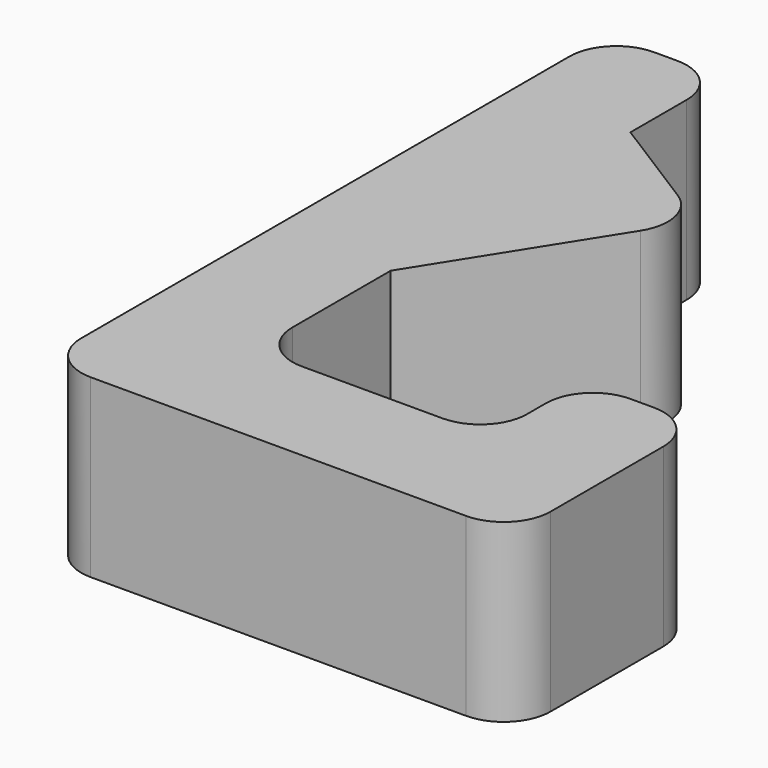
from build123d import *

# Parameters (mm, degrees)
F1_DEPTH = 7.5


with BuildPart() as f1:
    # F0 (on Top) → F1 (new body)
    with BuildSketch(Plane.XY):
        with BuildLine():
            ThreePointArc((-18, 30), (-19.414214, 29.414214), (-20, 28))
            Line((-20, 28), (-20, 2))
            ThreePointArc((-20, 2), (-19.414214, 0.585786), (-18, 0))
            Line((-18, 0), (-2, 0))
            ThreePointArc((-2, 0), (-0.585786, 0.585786), (0, 2))
            Line((0, 2), (0, 8))
            ThreePointArc((0, 8), (-0.585786, 9.414214), (-2, 10))
            Line((-2, 10), (-3, 10))
            ThreePointArc((-3, 10), (-4.414214, 9.414214), (-5, 8))
            Line((-5, 8), (-5, 7))
            ThreePointArc((-5, 7), (-5.585786, 5.585786), (-7, 5))
            Line((-7, 5), (-13, 5))
            ThreePointArc((-13, 5), (-14.414214, 5.585786), (-15, 7))
            Line((-15, 7), (-15, 12.231735))
            Line((-15, 12.231735), (-10.307771, 19.680434))
            ThreePointArc((-10.307771, 19.680434), (-10.049636, 21.189245), (-10.933998, 22.438665))
            Line((-10.933998, 22.438665), (-15, 25))
            Line((-15, 25), (-15, 28))
            ThreePointArc((-15, 28), (-15.585786, 29.414214), (-17, 30))
            Line((-17, 30), (-18, 30))
        make_face()
    extrude(amount=F1_DEPTH)


solid = f1.part
